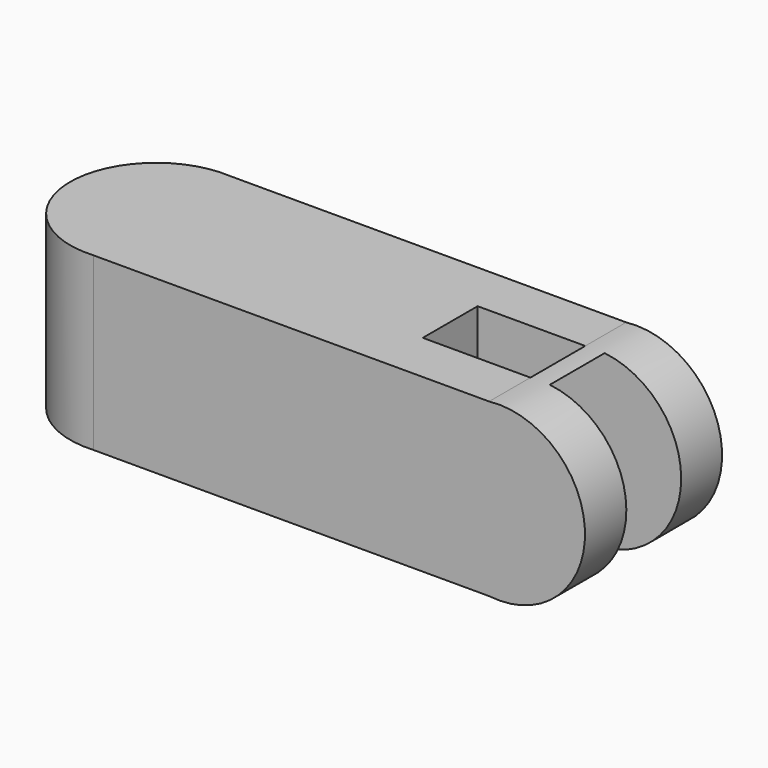
from build123d import *

# Parameters (mm, degrees)
F0_W     = 76.2
F0_H     = 31.75
F1_DEPTH = 31.75
F2_R     = 15.976301
F3_DEPTH = 31.75
F4_R     = 15.912234
F5_DEPTH = 31.75
F6_W     = 38.1
F6_H     = 12.7
F7_DEPTH = 31.852301


with BuildPart() as f1:
    # F0 (on Front) → F1 (new body)
    with BuildSketch(Plane.XZ):
        with Locations((6.312966, 2.627858)):
            Rectangle(F0_W, F0_H)
    extrude(amount=F1_DEPTH)

    # F2 (on face) → F3 (join)
    with BuildSketch(Plane.XZ.offset(31.75)):
        with Locations((44.412966, 2.627858)):
            Circle(F2_R)
    extrude(amount=-F3_DEPTH)

    # F4 (on face) → F5 (join)
    with BuildSketch(Plane.XY.offset(18.502858)):
        with Locations((-31.787034, -15.875)):
            Circle(F4_R)
    extrude(amount=-F5_DEPTH)

    # F6 (on face) → F7 (cut, through all)
    with BuildSketch(Plane.XY.offset(18.502858)):
        with Locations((41.720474, -15.823372)):
            Rectangle(F6_W, F6_H)
    extrude(amount=-F7_DEPTH, mode=Mode.SUBTRACT)


solid = f1.part
